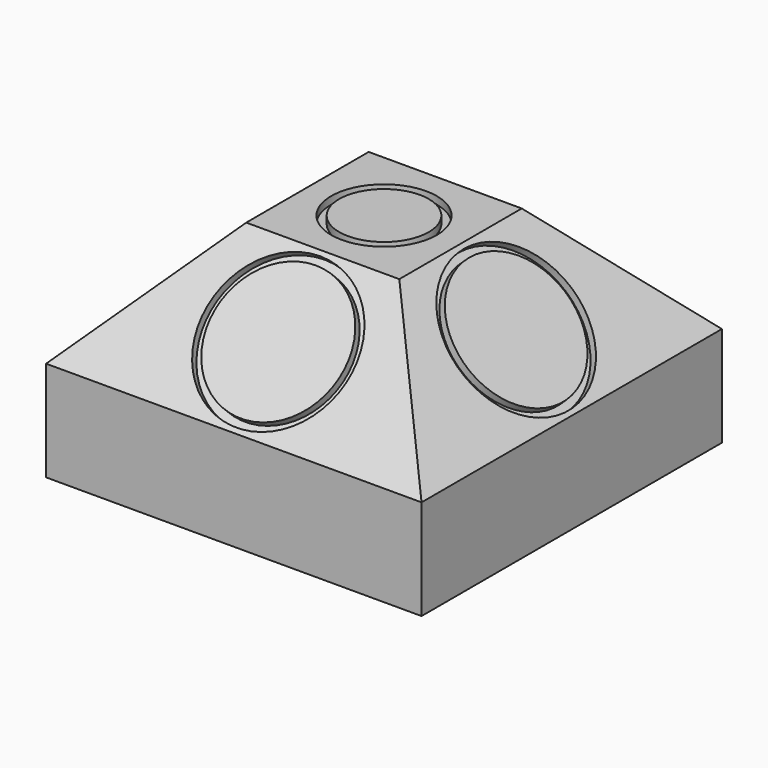
from build123d import *

# Parameters (mm, degrees)
SKETCH_W           = 150
SKETCH_H           = 150
PAD_DEPTH          = 40
SKETCH001_W        = 150
SKETCH001_H        = 150
PAD001_DEPTH       = 46
PAD001_TAPER       = 44
SKETCH002_R        = 30.1
SKETCH002_R_2      = 26.9
POCKET_DEPTH       = 3
POLARPATTERN_COUNT = 4
SKETCH003_R        = 21.1
SKETCH003_R_2      = 17.9
POCKET001_DEPTH    = 3


with BuildPart() as part:
    # Sketch → Pad (new body)
    with BuildSketch(Plane.XY):
        Rectangle(SKETCH_W, SKETCH_H)
    extrude(amount=PAD_DEPTH)

    # Sketch001 (on Face6 of Pad) → Pad001 (join)
    with BuildSketch(Plane.XY.offset(40)):
        Rectangle(SKETCH001_W, SKETCH001_H)
    extrude(amount=PAD001_DEPTH, taper=PAD001_TAPER)

    # Sketch002 (on Face10 of Pad001) → Pocket (cut)
    with BuildSketch(Plane(origin=(0, -55.9042011882, 59.7742785357), x_dir=(0, 0.6946583705, 0.7193398003), z_dir=(0, 0.7193398003, -0.6946583705))):
        with Locations((4.4842805345, 0)):
            Circle(SKETCH002_R)
        with Locations((4.4842805345, 0)):
            Circle(SKETCH002_R_2, mode=Mode.SUBTRACT)
    pocket = extrude(amount=POCKET_DEPTH, mode=Mode.SUBTRACT)

    # PolarPattern: Pocket ×4 about axis
    polarpattern_axis = Axis((0, 0, 0), (0, 0, 1))
    for i in range(1, POLARPATTERN_COUNT):
        add(pocket.rotate(polarpattern_axis, i * 360 / POLARPATTERN_COUNT), mode=Mode.SUBTRACT)

    # Sketch003 → Pocket001 (cut)
    with BuildSketch(Plane.XY.offset(86)):
        Circle(SKETCH003_R)
        Circle(SKETCH003_R_2, mode=Mode.SUBTRACT)
    extrude(amount=-POCKET001_DEPTH, mode=Mode.SUBTRACT)


solid = part.part
